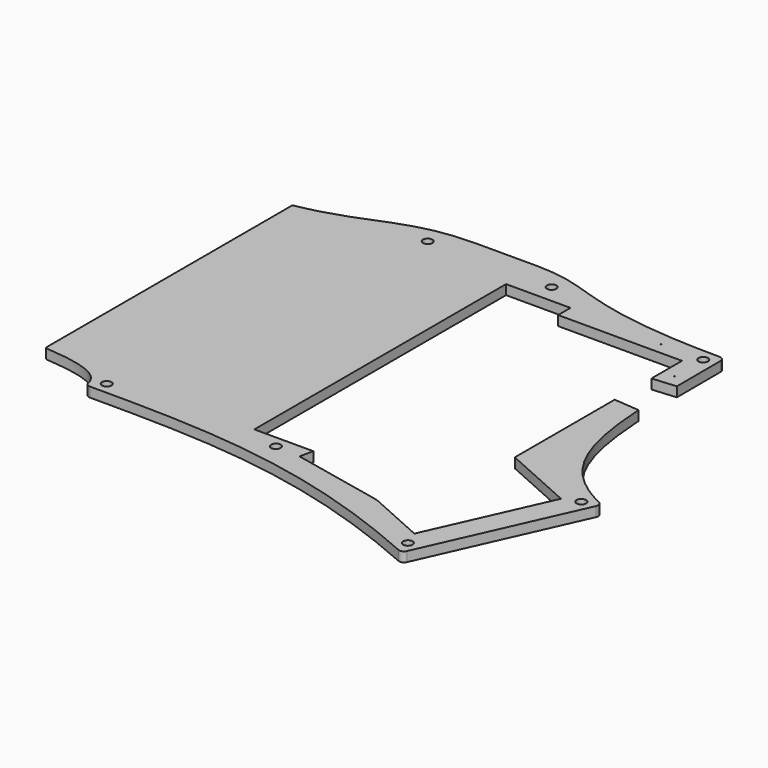
from build123d import *

# Parameters (mm, degrees)
PAD008_DEPTH    = 3
POCKET011_DEPTH = 5
SKETCH043_R     = 1.45
POCKET017_DEPTH = 22
POCKET023_DEPTH = 28
SKETCH059_R     = 0.15
POCKET030_DEPTH = 32
FILLET006_R     = 1.5
FILLET014_R     = 0.5


with BuildPart() as part:
    # Sketch030 → Pad008 (new body)
    with BuildSketch(Plane.XY):
        with BuildLine():
            Line((153.231854, -38.154949), (175.310198, 11.234895))
            add(Edge.make_bspline(
                [(150.875, 88.9625), (150.875, 42.8625), (150.875, 22.157965), (175.310198, 11.234895)],
                knots=[0, 0, 0, 0, 1, 1, 1, 1], degree=3))
            add(Edge.make_bspline(
                [(85.725, 98.4875), (104.775, 98.4875), (104.775, 88.9625), (150.875, 88.9625)],
                knots=[0, 0, 0, 0, 1, 1, 1, 1], degree=3))
            Line((85.725, 98.4875), (66.675, 98.4875))
            add(Edge.make_bspline(
                [(66.675, 98.4875), (45.641399, 98.334473), (40.615566, 90.142487), (20.066667, 86.427261)],
                knots=[0, 0, 0, 0, 1, 1, 1, 1], degree=3))
            Line((20.066667, 86.427261), (20.066667, -8.521476))
            add(Edge.make_bspline(
                [(20.066667, -8.521476), (32.593586, -9.362079), (39.625488, -11.778089), (39.625, -17.525)],
                knots=[0, 0, 0, 0, 1, 1, 1, 1], degree=3))
            add(Edge.make_bspline(
                [(153.231854, -38.154949), (107.082107, -17.525), (76.2, -17.525), (39.625, -17.525)],
                knots=[0, 0, 0, 0, 1, 1, 1, 1], degree=3))
        make_face()
    extrude(amount=PAD008_DEPTH)

    # Sketch031 → Pocket011 (cut)
    with BuildSketch(Plane(origin=(0, 0, 0), x_dir=(1, 0, 0), z_dir=(0, 0, -1))):
        Polygon((85.725, -86.475), (105.525, -86.475), (105.525, -81.7125), (143.625, -81.7125), (143.625, -17.457464), (165.732668, -7.574851), (149.57181, 28.577419), (131.568158, 20.529392), (102.96164, 14.448889), (103.848827, 10.275), (85.725, 10.275), align=None)
    extrude(amount=-POCKET011_DEPTH, mode=Mode.SUBTRACT)

    # Sketch043 → Pocket017 (cut)
    with BuildSketch(Plane.XY):
        with Locations((-4.375, -4.375)):
            Circle(SKETCH043_R)
        with Locations((-4.375, 80.575)):
            Circle(SKETCH043_R)
        with Locations((151.401832, -33.366184)):
            Circle(SKETCH043_R)
        with Locations((170.521433, 9.404873)):
            Circle(SKETCH043_R)
        with Locations((147.25, 85.3375)):
            Circle(SKETCH043_R)
        with Locations((43.25, -13.9)):
            Circle(SKETCH043_R)
        with Locations((57.15, 92.085)):
            Circle(SKETCH043_R)
        with Locations((95.25, 92.085)):
            Circle(SKETCH043_R)
        with Locations((95.25, -13.9)):
            Circle(SKETCH043_R)
    extrude(amount=POCKET017_DEPTH, mode=Mode.SUBTRACT)

    # Sketch051 → Pocket023 (cut)
    with BuildSketch(Plane.XY):
        Polygon((142.875, 69.9125), (142.875, 55.9125), (154.875, 54.9125), (154.875, 70.9125), align=None)
    extrude(amount=POCKET023_DEPTH, mode=Mode.SUBTRACT)

    # Sketch059 → Pocket030 (cut)
    with BuildSketch(Plane.XY):
        with Locations((134.25, 85.3375)):
            Circle(SKETCH059_R)
        with Locations((147.25, 74.3375)):
            Circle(SKETCH059_R)
    extrude(amount=POCKET030_DEPTH, mode=Mode.SUBTRACT)

    # Fillet006
    fillet006_edges = [part.edges().sort_by_distance(p)[0] for p in [
        (39.625, -17.525, 1.5),
        (153.231854, -38.154949, 1.5),
        (175.310198, 11.234895, 1.5),
        (150.875, 88.9625, 1.5),
    ]]
    fillet(fillet006_edges, radius=FILLET006_R)

    # Fillet014
    fillet014_edges = [part.edges().sort_by_distance(p)[0] for p in [
        (20.066667, -8.521476, 1.5),
        (20.066667, 86.427261, 1.5),
    ]]
    fillet(fillet014_edges, radius=FILLET014_R)


with BuildPart() as part_1:
    # Body007 placement: moved
    add(part.part.moved(Location((0, 0, -12))))


solid = part_1.part
